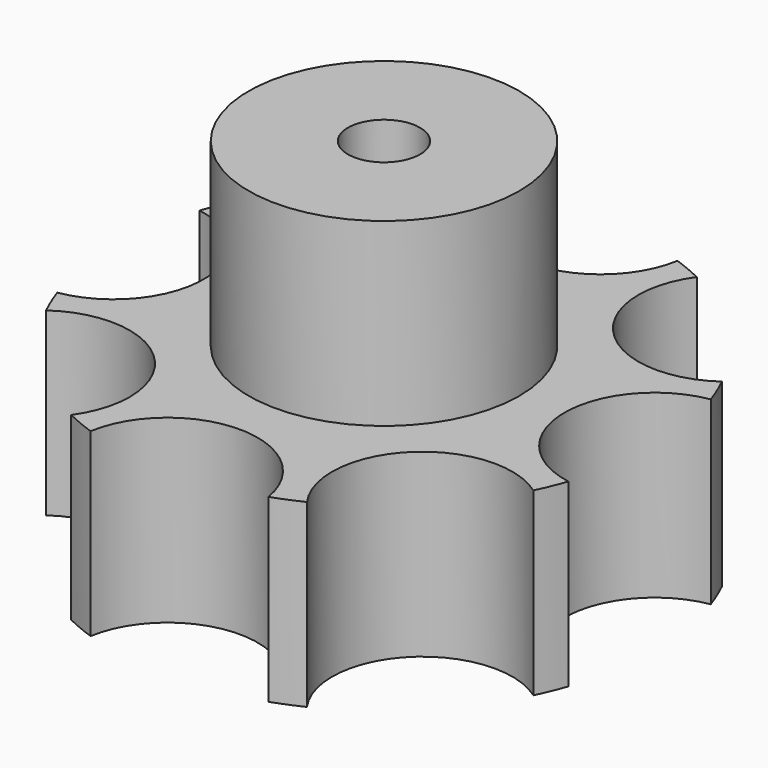
from build123d import *

# Parameters (mm, degrees)
F0_R     = 2
F1_DEPTH = 10
F2_R     = 7.5
F2_R_2   = 2
F3_DEPTH = 10


with BuildPart() as f1:
    # F0 (on Top) → F1 (new body)
    with BuildSketch(Plane.XY):
        with BuildLine():
            ThreePointArc((6.531263, -13.50343), (7.071068, -7.071068), (13.50343, -6.531263))
            ThreePointArc((13.50343, -6.531263), (13.858193, -5.740251), (14.166667, -4.930066))
            ThreePointArc((14.166667, -4.930066), (10, 0), (14.166667, 4.930066))
            ThreePointArc((14.166667, 4.930066), (13.858193, 5.740251), (13.50343, 6.531263))
            ThreePointArc((13.50343, 6.531263), (7.071068, 7.071068), (6.531263, 13.50343))
            ThreePointArc((6.531263, 13.50343), (5.740251, 13.858193), (4.930066, 14.166667))
            ThreePointArc((4.930066, 14.166667), (0, 10), (-4.930066, 14.166667))
            ThreePointArc((-4.930066, 14.166667), (-5.740251, 13.858193), (-6.531263, 13.50343))
            ThreePointArc((-6.531263, 13.50343), (-7.071068, 7.071068), (-13.50343, 6.531263))
            ThreePointArc((-13.50343, 6.531263), (-13.858193, 5.740251), (-14.166667, 4.930066))
            ThreePointArc((-14.166667, 4.930066), (-10, 0), (-14.166667, -4.930066))
            ThreePointArc((-14.166667, -4.930066), (-13.858193, -5.740251), (-13.50343, -6.531263))
            ThreePointArc((-13.50343, -6.531263), (-7.071068, -7.071068), (-6.531263, -13.50343))
            ThreePointArc((-6.531263, -13.50343), (-5.740251, -13.858193), (-4.930066, -14.166667))
            ThreePointArc((-4.930066, -14.166667), (0, -10), (4.930066, -14.166667))
            ThreePointArc((4.930066, -14.166667), (5.740251, -13.858193), (6.531263, -13.50343))
        make_face()
        Circle(F0_R, mode=Mode.SUBTRACT)
    extrude(amount=F1_DEPTH)

    # F2 (on face) → F3 (join)
    with BuildSketch(Plane.XY.offset(10)):
        Circle(F2_R)
        Circle(F2_R_2, mode=Mode.SUBTRACT)
    extrude(amount=F3_DEPTH)


solid = f1.part
